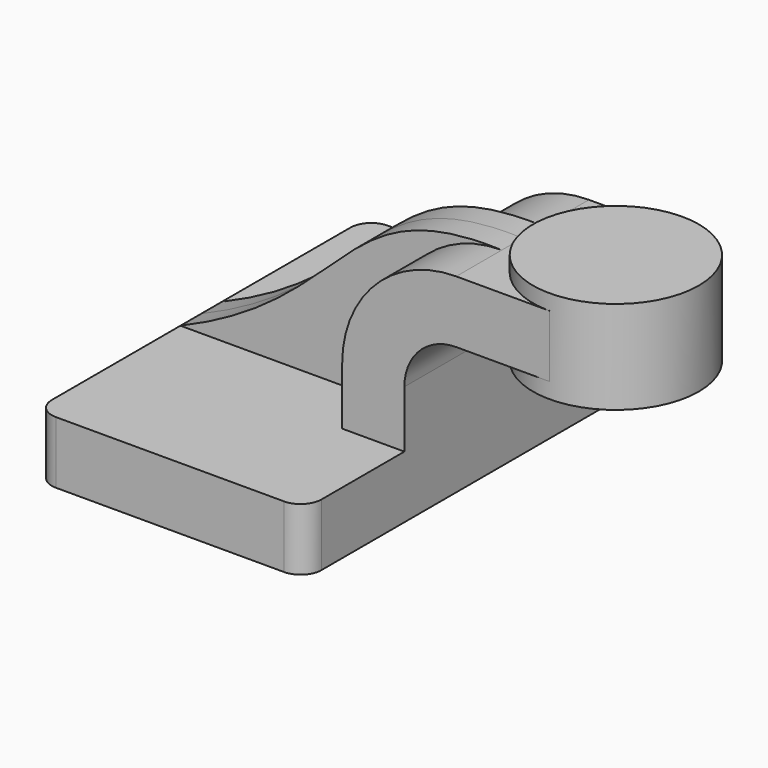
from build123d import *

# Parameters (mm, degrees)
F1_DEPTH = 63.5
F0_W     = 25.4
F0_H     = 19.05
F2_DEPTH = 25.4
F3_DEPTH = 7.9375
F5_R     = 6.35


with BuildPart() as f1:
    # F0 (on Front) → F1 (new body, symmetric)
    with BuildSketch(Plane.XZ):
        Polygon((-41.275, 9.525), (-41.275, -9.525), (41.275, -9.525), (41.275, 9.525), (22.225, 9.525), align=None)
    extrude(amount=F1_DEPTH, both=True)

    # F0 (on Front) → F2 (join, symmetric)
    with BuildSketch(Plane.XZ):
        with BuildLine():
            Line((22.225, 9.525), (41.275, 9.525))
            Line((41.275, 9.525), (41.275, 27.0002))
            ThreePointArc((41.275, 27.0002), (45.9246798487, 38.2255201513), (57.15, 42.8752))
            Line((57.15, 42.8752), (60.325, 42.8752))
            Line((60.325, 42.8752), (60.325, 61.9252))
            Line((60.325, 61.9252), (57.15, 61.9252))
            ThreePointArc((57.15, 61.9252), (32.4542956671, 51.6959043329), (22.225, 27.0002))
            Line((22.225, 27.0002), (22.225, 9.525))
        make_face()
        with Locations((73.025, 52.4002)):
            Rectangle(F0_W, F0_H)
    extrude(amount=F2_DEPTH, both=True)

    # F0 (on Front) → F3 (join, symmetric)
    with BuildSketch(Plane.XZ):
        with BuildLine():
            add(Edge.make_bspline(
                [(-41.275, 9.525), (11.8567310274, 31.9232158363), (6.8178027868, 63.6684522033), (57.15, 61.9252)],
                knots=[0, 0, 0, 0, 111.5045361635, 111.5045361635, 111.5045361635, 111.5045361635], degree=3))
            Line((-41.275, 9.525), (22.225, 9.525))
            Line((22.225, 9.525), (22.225, 27.0002))
            ThreePointArc((22.225, 27.0002), (32.4542956671, 51.6959043329), (57.15, 61.9252))
        make_face()
    extrude(amount=F3_DEPTH, both=True)

    # F5
    f5_edges = [f1.edges().sort_by_distance(p)[0] for p in [
        (41.275, -63.5, 0),
        (-41.275, -63.5, 0),
        (41.275, 63.5, 0),
        (-41.275, 63.5, 0),
    ]]
    fillet(f5_edges, radius=F5_R)


with BuildPart() as f4:
    # F0 (on Front) → F4 (revolve)
    with BuildSketch(Plane.XZ):
        Polygon((85.725, 66.675), (85.725, 61.9252), (85.725, 42.8752), (85.725, 38.1), (111.125, 38.1), (111.125, 66.675), align=None)
    revolve(axis=Axis((85.725, 0, 52.3875), (0, 0, 1)))


solid = Compound([f1.part, f4.part])
